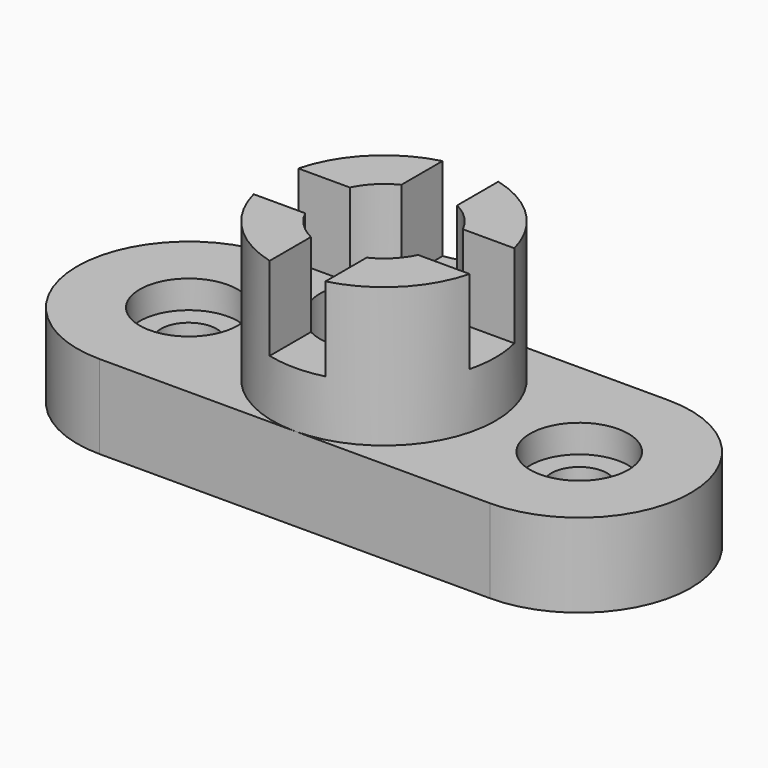
from build123d import *

# Parameters (mm, degrees)
F1_DEPTH  = 19.05
F2_R      = 6.35
F3_DEPTH  = 19.051
F2_R_2    = 11.176
F4_DEPTH  = 6.35
F5_R      = 25.4
F6_DEPTH  = 31.75
F7_R      = 14.351
F8_DEPTH  = 50.801
F10_W     = 12.7
F10_H     = 19.05
F11_DEPTH = 120.651
F13_W     = 12.7
F13_H     = 19.05
F14_DEPTH = 77.471


with BuildPart() as f1:
    # F0 (on Top) → F1 (new body)
    with BuildSketch(Plane.XY):
        with BuildLine():
            Line((44.45, 25.4), (-44.45, 25.4))
            ThreePointArc((-44.45, 25.4), (-69.85, 0), (-44.45, -25.4))
            Line((-44.45, -25.4), (44.45, -25.4))
            ThreePointArc((44.45, -25.4), (69.85, 0), (44.45, 25.4))
        make_face()
    extrude(amount=-F1_DEPTH)

    # F2 (on face) → F3 (cut, through all)
    with BuildSketch(Plane.XY):
        with Locations((-44.45, 0)):
            Circle(F2_R)
        with Locations((44.45, 0)):
            Circle(F2_R)
    extrude(amount=-F3_DEPTH, mode=Mode.SUBTRACT)

    # F2 (on face) → F4 (cut)
    with BuildSketch(Plane.XY):
        with Locations((-44.45, 0)):
            Circle(F2_R_2)
        with Locations((-44.45, 0)):
            Circle(F2_R, mode=Mode.SUBTRACT)
        with Locations((44.45, 0)):
            Circle(F2_R_2)
        with Locations((44.45, 0)):
            Circle(F2_R, mode=Mode.SUBTRACT)
    extrude(amount=-F4_DEPTH, mode=Mode.SUBTRACT)

    # F5 (on face) → F6 (join)
    with BuildSketch(Plane.XY):
        Circle(F5_R)
    extrude(amount=F6_DEPTH)

    # F7 (on face) → F8 (cut, through all)
    with BuildSketch(Plane.XY.offset(31.75)):
        Circle(F7_R)
    extrude(amount=-F8_DEPTH, mode=Mode.SUBTRACT)

    # F10 (on offset) → F11 (cut, through all)
    with BuildSketch(Plane.YZ.offset(50.8)):
        with Locations((0, 22.225)):
            Rectangle(F10_W, F10_H)
    extrude(amount=-F11_DEPTH, mode=Mode.SUBTRACT)

    # F13 (on offset) → F14 (cut, through all)
    with BuildSketch(Plane.XZ.offset(52.07)):
        with Locations((0, 22.225)):
            Rectangle(F13_W, F13_H)
    extrude(amount=-F14_DEPTH, mode=Mode.SUBTRACT)


solid = f1.part
